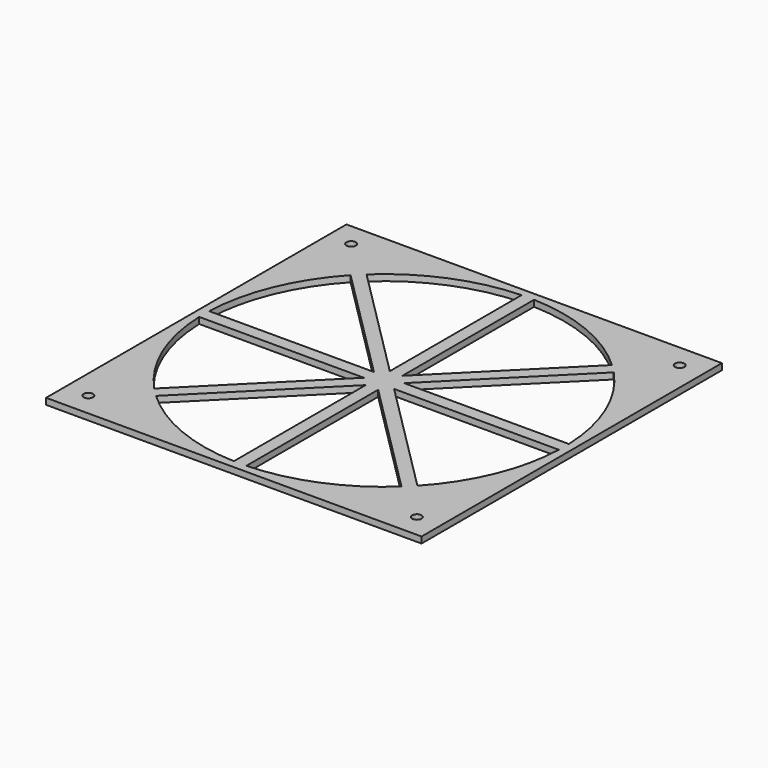
from build123d import *

# Parameters (mm, degrees)
F0_W     = 120
F0_H     = 120
F1_DEPTH = 2
F2_D     = 3


with BuildPart() as f1:
    # F0 (on Top) → F1 (new body)
    with BuildSketch(Plane.XY):
        Rectangle(F0_W, F0_H)
        with BuildLine():
            ThreePointArc((57.4652068647, 2), (57.4913010582, 1.0001513088), (57.5, 0))
            ThreePointArc((57.5, 0), (57.4913010582, -1.0001513088), (57.4652068647, -2))
            ThreePointArc((57.4652068647, -2), (53.1230731194, -22.004297361), (42.0482510187, -39.2198238939))
            ThreePointArc((42.0482510187, -39.2198238939), (40.6586399182, -40.6586399182), (39.2198238939, -42.0482510187))
            ThreePointArc((39.2198238939, -42.0482510187), (22.004297361, -53.1230731194), (2, -57.4652068647))
            ThreePointArc((2, -57.4652068647), (0, -57.5), (-2, -57.4652068647))
            ThreePointArc((-2, -57.4652068647), (-22.004297361, -53.1230731194), (-39.2198238939, -42.0482510187))
            ThreePointArc((-39.2198238939, -42.0482510187), (-40.6586399182, -40.6586399182), (-42.0482510187, -39.2198238939))
            ThreePointArc((-42.0482510187, -39.2198238939), (-53.1230731194, -22.004297361), (-57.4652068647, -2))
            ThreePointArc((-57.4652068647, -2), (-57.5, 0), (-57.4652068647, 2))
            ThreePointArc((-57.4652068647, 2), (-53.1230731194, 22.004297361), (-42.0482510187, 39.2198238939))
            ThreePointArc((-42.0482510187, 39.2198238939), (-40.6586399182, 40.6586399182), (-39.2198238939, 42.0482510187))
            ThreePointArc((-39.2198238939, 42.0482510187), (-22.004297361, 53.1230731194), (-2, 57.4652068647))
            ThreePointArc((-2, 57.4652068647), (0, 57.5), (2, 57.4652068647))
            ThreePointArc((2, 57.4652068647), (22.004297361, 53.1230731194), (39.2198238939, 42.0482510187))
            ThreePointArc((39.2198238939, 42.0482510187), (40.6586399182, 40.6586399182), (42.0482510187, 39.2198238939))
            ThreePointArc((42.0482510187, 39.2198238939), (53.1230731194, 22.004297361), (57.4652068647, 2))
        make_face(mode=Mode.SUBTRACT)
        with BuildLine():
            Line((-2, 4.8284271247), (-39.2198238939, 42.0482510187))
            ThreePointArc((-39.2198238939, 42.0482510187), (-40.6586399182, 40.6586399182), (-42.0482510187, 39.2198238939))
            Line((-42.0482510187, 39.2198238939), (-4.8284271247, 2))
            Line((-4.8284271247, 2), (-2, 2))
            Line((-2, 2), (-2, 4.8284271247))
        make_face()
        with BuildLine():
            Line((2, 4.8284271247), (2, 57.4652068647))
            ThreePointArc((2, 57.4652068647), (0, 57.5), (-2, 57.4652068647))
            Line((-2, 57.4652068647), (-2, 4.8284271247))
            Line((-2, 4.8284271247), (0, 2.8284271247))
            Line((0, 2.8284271247), (2, 4.8284271247))
        make_face()
        with BuildLine():
            Line((-4.8284271247, 2), (-57.4652068647, 2))
            ThreePointArc((-57.4652068647, 2), (-57.5, 0), (-57.4652068647, -2))
            Line((-57.4652068647, -2), (-4.8284271247, -2))
            Line((-4.8284271247, -2), (-2.8284271247, 0))
            Line((-2.8284271247, 0), (-4.8284271247, 2))
        make_face()
        with BuildLine():
            ThreePointArc((-42.0482510187, -39.2198238939), (-40.6586399182, -40.6586399182), (-39.2198238939, -42.0482510187))
            Line((-39.2198238939, -42.0482510187), (-2, -4.8284271247))
            Line((-2, -4.8284271247), (-2, -2))
            Line((-2, -2), (-4.8284271247, -2))
            Line((-4.8284271247, -2), (-42.0482510187, -39.2198238939))
        make_face()
        with BuildLine():
            ThreePointArc((-2, -57.4652068647), (0, -57.5), (2, -57.4652068647))
            Line((2, -57.4652068647), (2, -4.8284271247))
            Line((2, -4.8284271247), (0, -2.8284271247))
            Line((0, -2.8284271247), (-2, -4.8284271247))
            Line((-2, -4.8284271247), (-2, -57.4652068647))
        make_face()
        with BuildLine():
            ThreePointArc((39.2198238939, -42.0482510187), (40.6586399182, -40.6586399182), (42.0482510187, -39.2198238939))
            Line((42.0482510187, -39.2198238939), (4.8284271247, -2))
            Line((4.8284271247, -2), (2, -2))
            Line((2, -2), (2, -4.8284271247))
            Line((2, -4.8284271247), (39.2198238939, -42.0482510187))
        make_face()
        with BuildLine():
            ThreePointArc((57.4652068647, -2), (57.4913010582, -1.0001513088), (57.5, 0))
            ThreePointArc((57.5, 0), (57.4913010582, 1.0001513088), (57.4652068647, 2))
            Line((57.4652068647, 2), (4.8284271247, 2))
            Line((4.8284271247, 2), (2.8284271247, 0))
            Line((2.8284271247, 0), (4.8284271247, -2))
            Line((4.8284271247, -2), (57.4652068647, -2))
        make_face()
        with BuildLine():
            Line((4.8284271247, 2), (42.0482510187, 39.2198238939))
            ThreePointArc((42.0482510187, 39.2198238939), (40.6586399182, 40.6586399182), (39.2198238939, 42.0482510187))
            Line((39.2198238939, 42.0482510187), (2, 4.8284271247))
            Line((2, 4.8284271247), (2, 2))
            Line((2, 2), (4.8284271247, 2))
        make_face()
        Polygon((2.8284271247, 0), (4.8284271247, 2), (2, 2), (2, 0.8284271247), align=None)
        Polygon((0.8284271247, 2), (2, 2), (2, 4.8284271247), (0, 2.8284271247), align=None)
        Polygon((-0.8284271247, 2), (0, 2.8284271247), (-2, 4.8284271247), (-2, 2), align=None)
        Polygon((-2, 0.8284271247), (-2, 2), (-4.8284271247, 2), (-2.8284271247, 0), align=None)
        Polygon((-4.8284271247, -2), (-2, -2), (-2, -0.8284271247), (-2.8284271247, 0), align=None)
        Polygon((-2, -4.8284271247), (0, -2.8284271247), (-0.8284271247, -2), (-2, -2), align=None)
        Polygon((-2, -2), (-0.8284271247, -2), (-1.4142135624, -1.4142135624), (-2, -0.8284271247), align=None)
        Polygon((0, 0), (0, 2), (-0.8284271247, 2), (-1.4142135624, 1.4142135624), (-2, 0.8284271247), (-2, 0), (-2, -0.8284271247), (-1.4142135624, -1.4142135624), (-0.8284271247, -2), (0, -2), align=None)
        Polygon((-2, 0), (-2, 0.8284271247), (-2.8284271247, 0), (-2, -0.8284271247), align=None)
        Polygon((-1.4142135624, 1.4142135624), (-0.8284271247, 2), (-2, 2), (-2, 0.8284271247), align=None)
        Polygon((0, 2), (0.8284271247, 2), (0, 2.8284271247), (-0.8284271247, 2), align=None)
        Polygon((1.4142135624, 1.4142135624), (0.8284271247, 2), (0, 2), (0, 0), (0, -2), (0.8284271247, -2), (1.4142135624, -1.4142135624), (2, -0.8284271247), (2, 0), (2, 0.8284271247), align=None)
        Polygon((2, 0.8284271247), (2, 2), (0.8284271247, 2), (1.4142135624, 1.4142135624), align=None)
        Polygon((2, -2), (4.8284271247, -2), (2.8284271247, 0), (2, -0.8284271247), align=None)
        Polygon((2, -4.8284271247), (2, -2), (0.8284271247, -2), (0, -2.8284271247), align=None)
        Polygon((0, -2.8284271247), (0.8284271247, -2), (0, -2), (-0.8284271247, -2), align=None)
        Polygon((2, -0.8284271247), (2.8284271247, 0), (2, 0.8284271247), (2, 0), align=None)
        Polygon((0.8284271247, -2), (2, -2), (2, -0.8284271247), (1.4142135624, -1.4142135624), align=None)
    extrude(amount=F1_DEPTH)

    # F2 (through all)
    with Locations(Plane(origin=(0, 0, 0), x_dir=(1, 0, 0), z_dir=(0, 0, -1))):
        with Locations((-52.5, -52.5), (-52.5, 52.5), (52.5, 52.5), (52.5, -52.5)):
            Hole(F2_D / 2)


solid = f1.part
